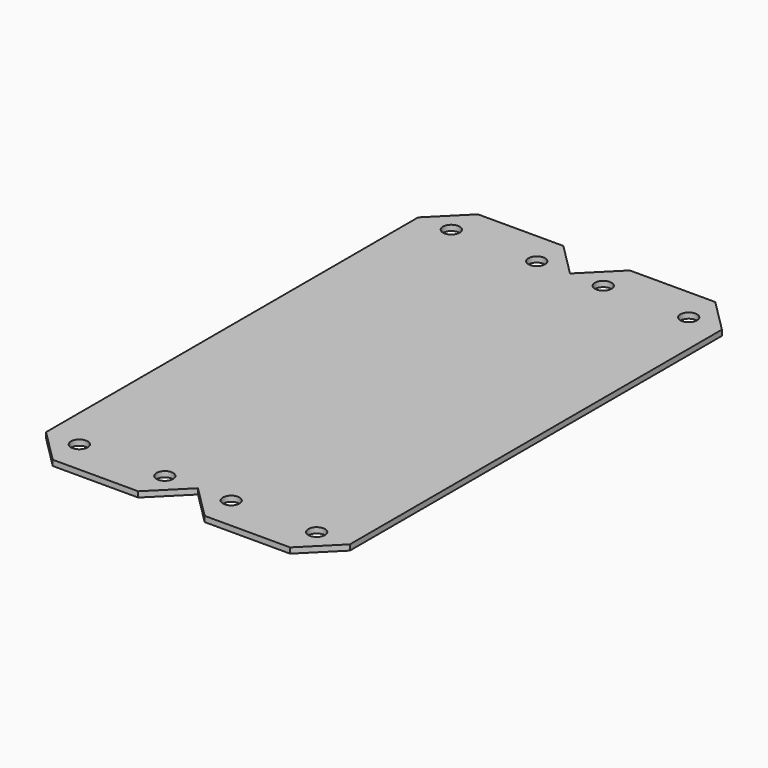
from build123d import *

# Parameters (mm, degrees)
F1_DEPTH = 6.35
F2_SIZE  = 38.1
F3_R     = 9.525
F4_DEPTH = 6.351


with BuildPart() as f1:
    # F0 (on Top) → F1 (new body)
    with BuildSketch(Plane.XY):
        Polygon((212.344, 0), (348.488, 0), (348.488, 609.6), (212.344, 609.6), (174.244, 571.5), (136.144, 609.6), (0, 609.6), (0, 0), (136.144, 0), (174.244, 38.1), align=None)
    extrude(amount=F1_DEPTH)

    # F2
    f2_edges = [f1.edges().sort_by_distance(p)[0] for p in [
        (0, 609.6, 3.175),
        (348.488, 609.6, 3.175),
        (348.488, 0, 3.175),
        (0, 0, 3.175),
    ]]
    chamfer(f2_edges, length=F2_SIZE)

    # F3 (on face) → F4 (cut, through all)
    with BuildSketch(Plane(origin=(0, 0, 0), x_dir=(1, 0, 0), z_dir=(0, 0, -1))):
        with Locations((38.1, -571.5)):
            Circle(F3_R)
        with Locations((136.144, -571.5)):
            Circle(F3_R)
        with Locations((212.344, -571.5)):
            Circle(F3_R)
        with Locations((310.388, -571.5)):
            Circle(F3_R)
        with Locations((38.1, -38.1)):
            Circle(F3_R)
        with Locations((136.144, -38.1)):
            Circle(F3_R)
        with Locations((212.344, -38.1)):
            Circle(F3_R)
        with Locations((310.388, -38.1)):
            Circle(F3_R)
    extrude(amount=-F4_DEPTH, mode=Mode.SUBTRACT)


solid = f1.part
